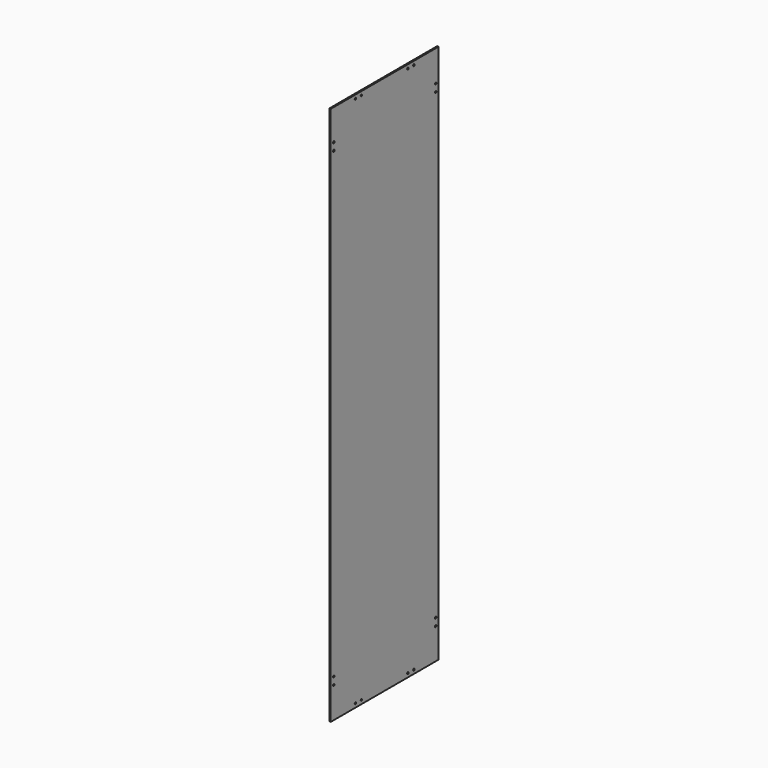
from build123d import *

# Parameters (mm, degrees)
F0_W     = 457.2
F0_H     = 1828.8
F1_DEPTH = 4.7625
F2_R     = 3.175
F3_R     = 3.175
F4_R     = 3.175
F5_R     = 3.175
F6_DEPTH = 25.4


with BuildPart() as f1:
    # F0 (on Right) → F1 (new body)
    with BuildSketch(Plane.YZ):
        with Locations((-1087.323105, 36.986277)):
            Rectangle(F0_W, F0_H)
    extrude(amount=F1_DEPTH)

    # F2 (on face) + F3 (on face) + F4 (on face) + F5 (on face) → F6 (cut)
    with BuildSketch(Plane.YZ.offset(4.7625)):
        with Locations((-1303.223105, 846.611277)):
            Circle(F2_R)
        with Locations((-1303.223105, 821.211277)):
            Circle(F2_R)
        with Locations((-1211.148105, 938.686277)):
            Circle(F2_R)
        with Locations((-1185.748105, 938.686277)):
            Circle(F2_R)
    with BuildSketch(Plane.YZ.offset(4.7625)):
        with Locations((-988.898105, 938.686277)):
            Circle(F3_R)
        with Locations((-963.498105, 938.686277)):
            Circle(F3_R)
        with Locations((-871.423105, 846.611277)):
            Circle(F3_R)
        with Locations((-871.423105, 821.211277)):
            Circle(F3_R)
    with BuildSketch(Plane.YZ.offset(4.7625)):
        with Locations((-871.423105, -772.638723)):
            Circle(F4_R)
        with Locations((-871.423105, -747.238723)):
            Circle(F4_R)
        with Locations((-963.498105, -864.713723)):
            Circle(F4_R)
        with Locations((-988.898105, -864.713723)):
            Circle(F4_R)
    with BuildSketch(Plane.YZ.offset(4.7625)):
        with Locations((-1303.223105, -772.638723)):
            Circle(F5_R)
        with Locations((-1303.223105, -747.238723)):
            Circle(F5_R)
        with Locations((-1211.148105, -864.713723)):
            Circle(F5_R)
        with Locations((-1185.748105, -864.713723)):
            Circle(F5_R)
    extrude(amount=-F6_DEPTH, mode=Mode.SUBTRACT)


solid = f1.part
